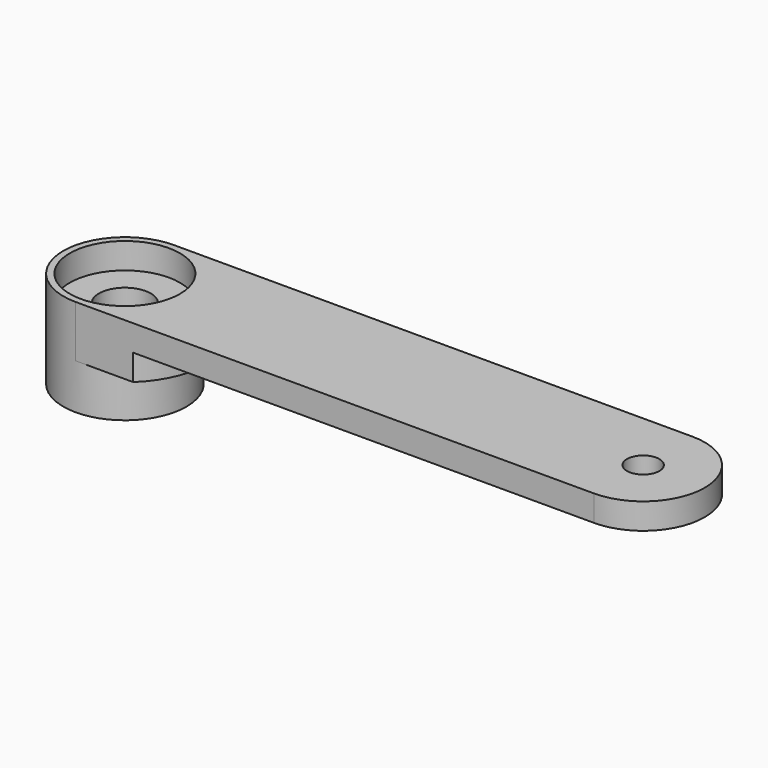
from build123d import *

# Parameters (mm, degrees)
SKETCH_R        = 9.5
PAD_DEPTH       = 6
SKETCH001_R     = 9.5
PAD001_DEPTH    = 5
SKETCH002_R     = 4
POCKET_DEPTH    = 5
SKETCH003_R     = 2.5
SKETCH003_R_2   = 4
PAD002_DEPTH    = 4
SKETCH004_R     = 8.5
POCKET001_DEPTH = 4
PAD003_DEPTH    = 4


with BuildPart() as part:
    # Sketch → Pad (new body)
    with BuildSketch(Plane.XY):
        Circle(SKETCH_R)
        Polygon((3.752777, 6.5), (-3.752777, 6.5), (-7.505553, 0), (-3.752777, -6.5), (3.752777, -6.5), (7.505553, 0), align=None, mode=Mode.SUBTRACT)
    extrude(amount=PAD_DEPTH)

    # Sketch001 (on Face9 of Pad) → Pad001 (join)
    with BuildSketch(Plane.XY.offset(6)):
        Circle(SKETCH001_R)
    extrude(amount=PAD001_DEPTH)

    # Sketch002 (on Face10 of Pad001) → Pocket (cut)
    with BuildSketch(Plane.XY.offset(11)):
        Circle(SKETCH002_R)
    extrude(amount=-POCKET_DEPTH, mode=Mode.SUBTRACT)

    # Sketch003 (on Face10 of Pocket) → Pad002 (join)
    with BuildSketch(Plane.XY.offset(11)):
        with BuildLine():
            ThreePointArc((0, 9.5), (-9.5, 0), (0, -9.5))
            Line((0, -9.5), (80, -9.5))
            ThreePointArc((80, -9.5), (89.5, 0), (80, 9.5))
            Line((0, 9.5), (80, 9.5))
        make_face()
        with Locations((80, 0)):
            Circle(SKETCH003_R, mode=Mode.SUBTRACT)
        Circle(SKETCH003_R_2, mode=Mode.SUBTRACT)
    extrude(amount=PAD002_DEPTH)

    # Sketch004 (on Face17 of Pad002) → Pocket001 (cut)
    with BuildSketch(Plane.XY.offset(15)):
        Circle(SKETCH004_R)
    extrude(amount=-POCKET001_DEPTH, mode=Mode.SUBTRACT)

    # Sketch005 (on Face10 of Pocket001) → Pad003 (join)
    with BuildSketch(Plane(origin=(0, 0, 11), x_dir=(1, 0, 0), z_dir=(0, 0, -1))):
        with BuildLine():
            ThreePointArc((8.87412, -9.5), (13, 0), (8.87412, 9.5))
            Line((0, 9.5), (8.87412, 9.5))
            ThreePointArc((0, -9.5), (9.5, 0), (0, 9.5))
            Line((0, -9.5), (8.87412, -9.5))
        make_face()
    extrude(amount=PAD003_DEPTH)


solid = part.part
